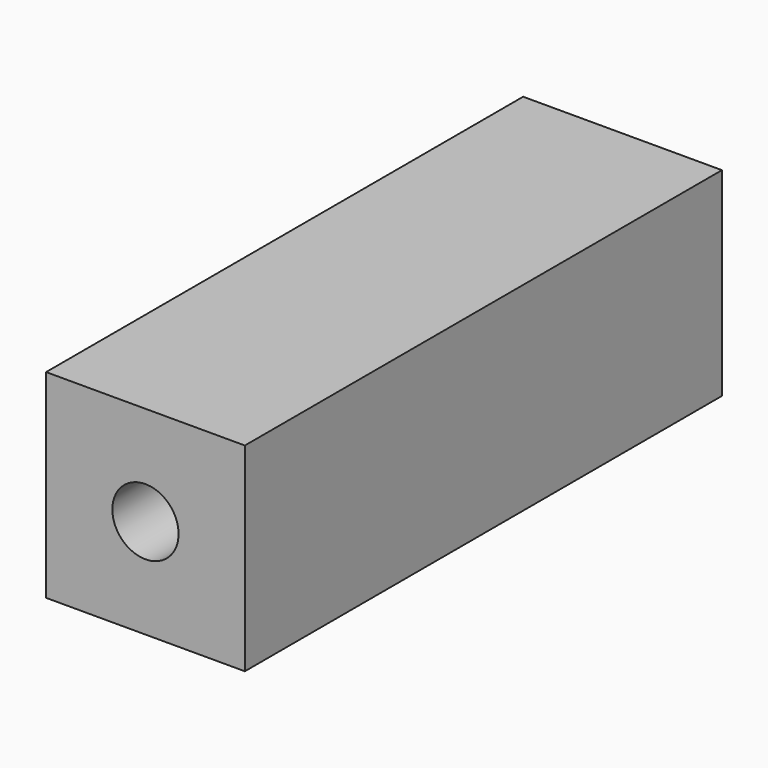
from build123d import *

# Parameters (mm, degrees)
F0_W     = 38.1
F0_H     = 38.1
F1_DEPTH = 57.15
F4_D     = 12.7
F4_DEPTH = 609.6


with BuildPart() as f1:
    # F0 (on Front) → F1 (new body, symmetric)
    with BuildSketch(Plane.XZ):
        Rectangle(F0_W, F0_H)
    extrude(amount=F1_DEPTH, both=True)

    # F4
    with Locations(Plane(origin=(0, 152.4, 0), x_dir=(1, 0, 0), z_dir=(0, 1, 0))):
        with Locations((0, 0)):
            Hole(F4_D / 2, depth=F4_DEPTH)


solid = f1.part
